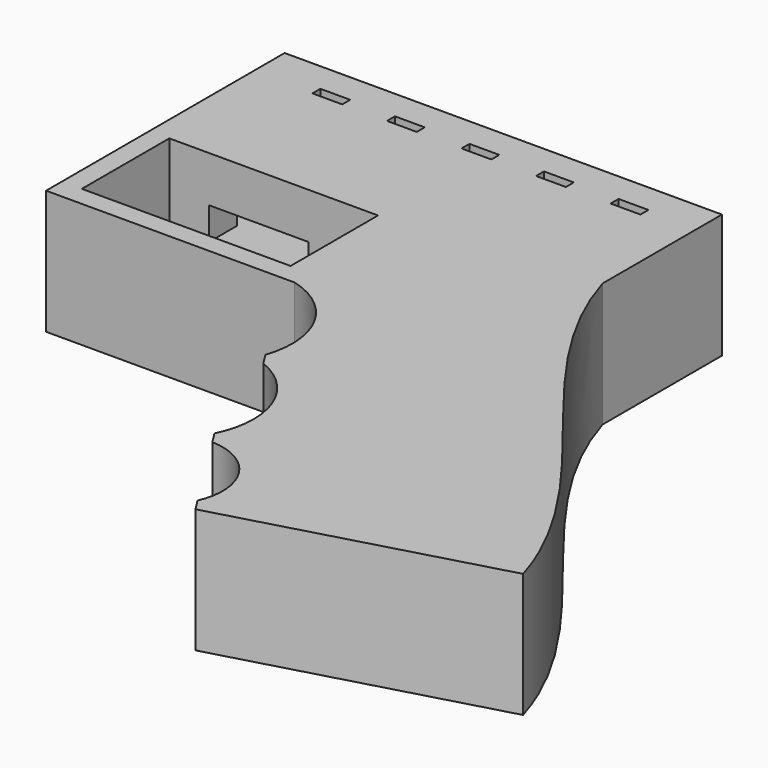
from build123d import *

# Parameters (mm, degrees)
F0_W     = 42
F0_H     = 22
F0_W_2   = 6
F0_H_2   = 2
F1_DEPTH = 25
F2_W     = 30
F2_H     = 19
F2_W_2   = 20
F2_H_2   = 6.5
F2_W_3   = 12
F3_DEPTH = 22
F4_DEPTH = 55
F5_DEPTH = 34
F6_DEPTH = 27


with BuildPart() as f1:
    # F0 (on Top) → F1 (new body)
    with BuildSketch(Plane.XY):
        Polygon((44, 30), (-44, 30), (-44, -30), (6, -30), (44, -30), (44, 0), align=None)
        with Locations((-19, -15)):
            Rectangle(F0_W, F0_H, mode=Mode.SUBTRACT)
        with Locations((-29, 23)):
            Rectangle(F0_W_2, F0_H_2, mode=Mode.SUBTRACT)
        with Locations((-14, 23)):
            Rectangle(F0_W_2, F0_H_2, mode=Mode.SUBTRACT)
        with Locations((1, 23)):
            Rectangle(F0_W_2, F0_H_2, mode=Mode.SUBTRACT)
        with Locations((16, 23)):
            Rectangle(F0_W_2, F0_H_2, mode=Mode.SUBTRACT)
        with Locations((31, 23)):
            Rectangle(F0_W_2, F0_H_2, mode=Mode.SUBTRACT)
        with BuildLine():
            add(Edge.make_bspline(
                [(44, 0), (53.346686, -31.095194), (86.653314, -53.904806), (96, -85)],
                knots=[0, 0, 0, 0, 99.644368, 99.644368, 99.644368, 99.644368], degree=3))
            Line((44, 0), (44, -30))
            Line((44, -30), (6, -30))
            ThreePointArc((6, -30), (16.724801, -38.440392), (17.787344, -52.046735))
            Line((17.787344, -52.046735), (19.384056, -54.586521))
            ThreePointArc((19.384056, -54.586521), (28.940376, -64.33015), (28.252722, -77.960582))
            Line((28.252722, -77.960582), (29.849434, -80.500368))
            ThreePointArc((29.849434, -80.500368), (39.700482, -86.135868), (40.449604, -97.460214))
            Line((40.449604, -97.460214), (42.046316, -100))
            Line((42.046316, -100), (96, -85))
        make_face()
    extrude(amount=F1_DEPTH)

    # F2 (on face) → F3 (cut)
    with BuildSketch(Plane(origin=(0, 30, 0), x_dir=(-1, 0, 0), z_dir=(0, 1, 0))):
        with Locations((-26, 12.5)):
            Rectangle(F2_W, F2_H)
        Polygon((32, 22), (-11, 22), (-11, 3), (32, 3), (32, 9.25), (12, 9.25), (12, 15.75), (32, 15.75), align=None)
        with Locations((22, 12.5)):
            Rectangle(F2_W_2, F2_H_2)
        with Locations((38, 12.5)):
            Rectangle(F2_W_3, F2_H_2)
    extrude(amount=-F3_DEPTH, mode=Mode.SUBTRACT)

    # F2 (on face) → F4 (cut)
    with BuildSketch(Plane(origin=(0, 30, 0), x_dir=(-1, 0, 0), z_dir=(0, 1, 0))):
        with Locations((-26, 12.5)):
            Rectangle(F2_W, F2_H)
    extrude(amount=-F4_DEPTH, mode=Mode.SUBTRACT)

    # F2 (on face) → F5 (cut, through all)
    with BuildSketch(Plane(origin=(0, 30, 0), x_dir=(-1, 0, 0), z_dir=(0, 1, 0))):
        with Locations((22, 12.5)):
            Rectangle(F2_W_2, F2_H_2)
    extrude(amount=-F5_DEPTH, mode=Mode.SUBTRACT)

    # F2 (on face) → F6 (cut)
    with BuildSketch(Plane(origin=(0, 30, 0), x_dir=(-1, 0, 0), z_dir=(0, 1, 0))):
        with Locations((38, 12.5)):
            Rectangle(F2_W_3, F2_H_2)
    extrude(amount=-F6_DEPTH, mode=Mode.SUBTRACT)


solid = f1.part
